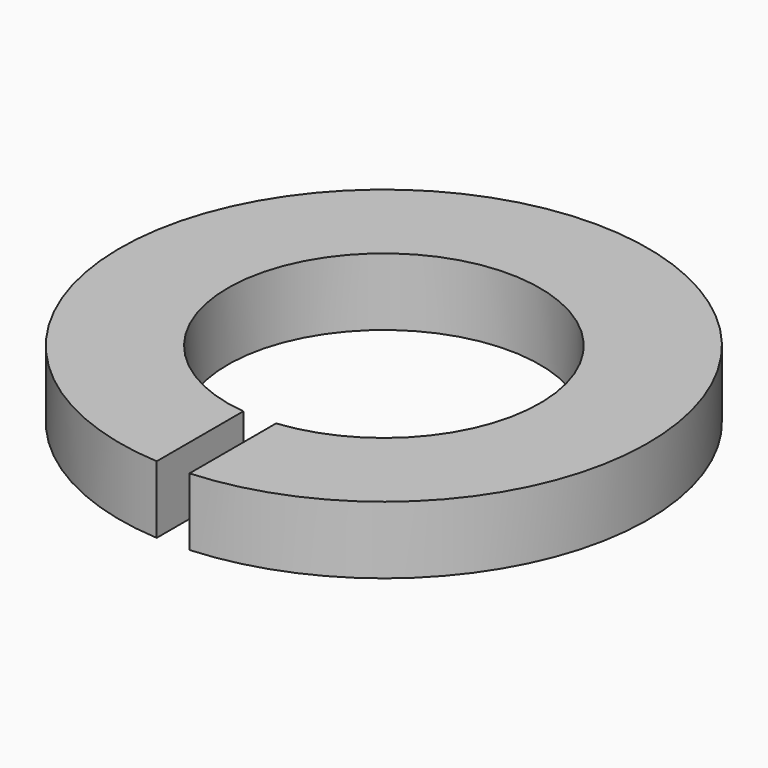
from build123d import *

# Parameters (mm, degrees)
PAD_DEPTH = 1.75


with BuildPart() as part:
    # Sketch → Pad (new body, symmetric)
    with BuildSketch(Plane.XY):
        with BuildLine():
            ThreePointArc((0.85, -8.055278), (0, 8.1), (-0.85, -8.055278))
            Line((-0.85, -13.673606), (-0.85, -8.055278))
            ThreePointArc((0.85, -13.673606), (0, 13.7), (-0.85, -13.673606))
            Line((0.85, -8.055278), (0.85, -13.673606))
        make_face()
    extrude(amount=PAD_DEPTH, both=True)


solid = part.part
